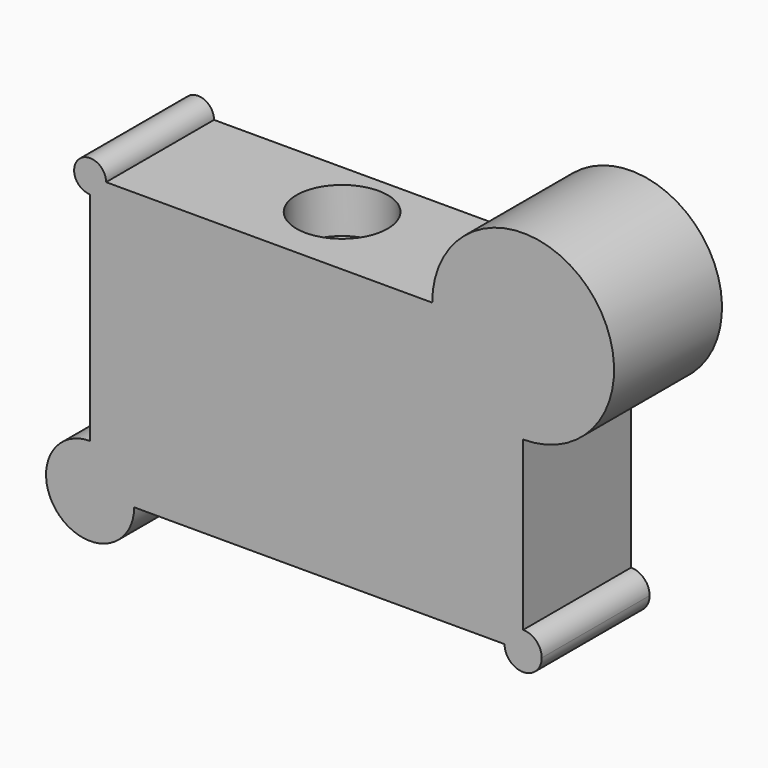
from build123d import *

# Parameters (mm, degrees)
F1_DEPTH = 76.2
F2_R     = 25.7565229103
F3_DEPTH = 25.4


with BuildPart() as f1:
    # F0 (on Front) → F1 (new body)
    with BuildSketch(Plane.XZ):
        with BuildLine():
            Line((-217.0628905296, 44.0026623952), (-217.0628905296, 53.0386045575))
            Line((-217.0628905296, 53.0386045575), (-208.0269483673, 53.0386045575))
            ThreePointArc((-208.0269483673, 53.0386045575), (-223.452266507, 59.4279805349), (-217.0628905296, 44.0026623952))
        make_face()
        with BuildLine():
            ThreePointArc((78.9043606112, 53.0386045575), (27.5418888777, 104.401076291), (-23.8205828557, 53.0386045575))
            Line((-23.8205828557, 53.0386045575), (27.5418888777, 53.0386045575))
            Line((27.5418888777, 53.0386045575), (27.5418888777, 1.676132824))
            ThreePointArc((27.5418888777, 1.676132824), (63.860640939, 16.7198524963), (78.9043606112, 53.0386045575))
        make_face()
        with BuildLine():
            Line((-217.0628905296, -103.4866347909), (-217.0628905296, -78.593862027))
            ThreePointArc((-217.0628905296, -78.593862027), (-234.6647389535, -121.0884832148), (-192.1701177657, -103.4866347909))
            Line((-192.1701177657, -103.4866347909), (-217.0628905296, -103.4866347909))
        make_face()
        with BuildLine():
            ThreePointArc((38.0325649024, -103.4866347909), (34.959917034, -96.0686066346), (27.5418888777, -92.9959587662))
            Line((27.5418888777, -92.9959587662), (27.5418888777, -103.4866347909))
            Line((27.5418888777, -103.4866347909), (17.0512128531, -103.4866347909))
            ThreePointArc((17.0512128531, -103.4866347909), (27.5418888777, -113.9773108156), (38.0325649024, -103.4866347909))
        make_face()
        with BuildLine():
            Line((-208.0269483673, 53.0386045575), (-217.0628905296, 53.0386045575))
            Line((-217.0628905296, 53.0386045575), (-217.0628905296, 44.0026623952))
            ThreePointArc((-217.0628905296, 44.0026623952), (-210.6735145522, 46.6492285801), (-208.0269483673, 53.0386045575))
        make_face()
        with BuildLine():
            Line((27.5418888777, 53.0386045575), (-23.8205828557, 53.0386045575))
            ThreePointArc((-23.8205828557, 53.0386045575), (-8.7768631835, 16.7198524963), (27.5418888777, 1.676132824))
            Line((27.5418888777, 1.676132824), (27.5418888777, 53.0386045575))
        make_face()
        with BuildLine():
            ThreePointArc((-192.1701177657, -103.4866347909), (-199.4610421057, -85.884786367), (-217.0628905296, -78.593862027))
            Line((-217.0628905296, -78.593862027), (-217.0628905296, -103.4866347909))
            Line((-217.0628905296, -103.4866347909), (-192.1701177657, -103.4866347909))
        make_face()
        with BuildLine():
            Line((27.5418888777, -103.4866347909), (27.5418888777, -92.9959587662))
            ThreePointArc((27.5418888777, -92.9959587662), (20.1238607215, -96.0686066346), (17.0512128531, -103.4866347909))
            Line((17.0512128531, -103.4866347909), (27.5418888777, -103.4866347909))
        make_face()
        with BuildLine():
            Line((-23.8205828557, 53.0386045575), (-208.0269483673, 53.0386045575))
            ThreePointArc((-208.0269483673, 53.0386045575), (-210.6735145522, 46.6492285801), (-217.0628905296, 44.0026623952))
            Line((-217.0628905296, 44.0026623952), (-217.0628905296, -78.593862027))
            ThreePointArc((-217.0628905296, -78.593862027), (-199.4610421057, -85.884786367), (-192.1701177657, -103.4866347909))
            Line((-192.1701177657, -103.4866347909), (17.0512128531, -103.4866347909))
            ThreePointArc((17.0512128531, -103.4866347909), (20.1238607215, -96.0686066346), (27.5418888777, -92.9959587662))
            Line((27.5418888777, -92.9959587662), (27.5418888777, 1.676132824))
            ThreePointArc((27.5418888777, 1.676132824), (-8.7768631835, 16.7198524963), (-23.8205828557, 53.0386045575))
        make_face()
    extrude(amount=-F1_DEPTH)

    # F2 (on face) → F3 (cut)
    with BuildSketch(Plane.XY.offset(53.0386045575)):
        with Locations((-109.0174764395, 42.8577400744)):
            Circle(F2_R)
    extrude(amount=-F3_DEPTH, mode=Mode.SUBTRACT)


solid = f1.part
